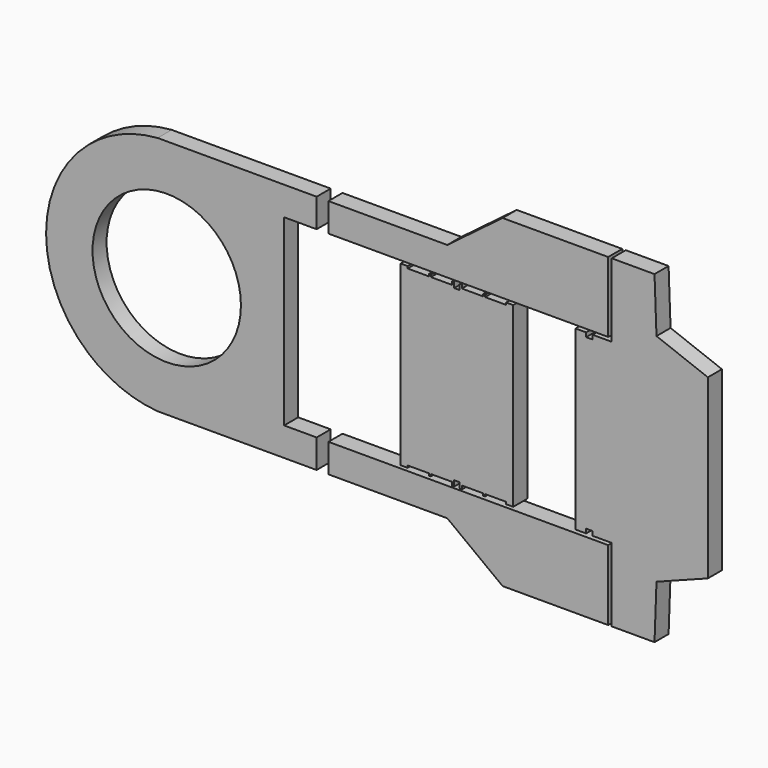
from build123d import *

# Parameters (mm, degrees)
F1_DEPTH = 25
F0_R     = 105.436405
F2_DEPTH = 25


with BuildPart() as f1:
    # F0 (on Front) → F1 (new body)
    with BuildSketch(Plane.XZ):
        Polygon((705.075502, -4.062413), (705.075502, -130.227521), (705.075502, -256.392629), (715.075502, -256.392629), (715.075502, -253.392629), (745.075502, -253.392629), (745.075502, -256.392629), (748.075502, -256.392629), (748.075502, -253.392629), (778.075502, -253.392629), (778.075502, -258.392629), (781.075502, -258.392629), (781.075502, -250.392629), (789.075502, -250.392629), (789.075502, -258.392629), (792.075502, -258.392629), (792.075502, -253.392629), (822.075502, -253.392629), (822.075502, -256.392629), (825.075502, -256.392629), (825.075502, -253.392629), (855.075502, -253.392629), (855.075502, -256.392629), (865.075502, -256.392629), (865.075502, -130.227521), (865.075502, -4.062413), (855.075502, -4.062413), (855.075502, -7.062413), (825.075502, -7.062413), (825.075502, -4.062413), (822.075502, -4.062413), (822.075502, -7.062413), (792.075502, -7.062413), (792.075502, -2.062413), (789.075502, -2.062413), (789.075502, -10.062413), (781.075502, -10.062413), (781.075502, -2.062413), (778.075502, -2.062413), (778.075502, -7.062413), (748.075502, -7.062413), (748.075502, -4.062413), (745.075502, -4.062413), (745.075502, -7.062413), (715.075502, -7.062413), (715.075502, -4.062413), align=None)
        Polygon((1000, -260.455042), (602.46402, -260.455042), (602.46402, -301.172042), (771.398842, -301.172042), (850, -360.455042), (1000, -360.455042), align=None)
        Polygon((953.698397, -4.465473), (953.698397, -130.227521), (953.698397, -255.989569), (968.698397, -255.989569), (968.698397, -249.989569), (977.698397, -249.989569), (977.698397, -255.989569), (1005, -255.989569), (1005, -360.455042), (1065.825701, -360.455042), (1068.650246, -283.873346), (1141.615189, -255.989569), (1141.615189, -130.227521), (1141.615189, -4.465473), (1068.650246, 23.418304), (1065.825701, 100), (1005, 100), (1005, -4.465473), (977.698397, -4.465473), (977.698397, -10.465473), (968.698397, -10.465473), (968.698397, -4.465473), align=None)
        Polygon((602.46402, 40.717), (602.46402, 0), (1000, 0), (1000, 100), (850, 100), (771.398842, 40.717), align=None)
    extrude(amount=F1_DEPTH)


with BuildPart() as f2:
    # F0 (on Front) → F2 (new body)
    with BuildSketch(Plane.XZ):
        with BuildLine():
            Line((539.529026, -260.455042), (539.529026, 0))
            Line((539.529026, 0), (261.211913, 0))
            ThreePointArc((261.211913, 0), (201.271463, -130.227513), (261.211878, -260.455042))
            Line((261.211878, -260.455042), (539.529026, -260.455042))
        make_face()
        with Locations((372.708854, -130.227536)):
            Circle(F0_R, mode=Mode.SUBTRACT)
        with BuildLine():
            Line((261.211913, 0), (539.529026, 0))
            Line((539.529026, 0), (585.699026, 0))
            Line((585.699026, 0), (585.699026, 40.717))
            Line((585.699026, 40.717), (385.699026, 40.717))
            Line((385.699026, 40.717), (359.718682, 40.717))
            ThreePointArc((359.718682, 40.717), (307.220467, 28.208729), (261.211913, 0))
        make_face()
        with BuildLine():
            Line((585.699421, -260.455042), (539.529026, -260.455042))
            Line((539.529026, -260.455042), (261.211878, -260.455042))
            ThreePointArc((261.211878, -260.455042), (307.220262, -288.663717), (359.718287, -301.172042))
            Line((359.718287, -301.172042), (385.699421, -301.172042))
            Line((385.699421, -301.172042), (585.699421, -301.172042))
            Line((585.699421, -301.172042), (585.699421, -260.455042))
        make_face()
    extrude(amount=F2_DEPTH)


solid = Compound([f1.part, f2.part])
